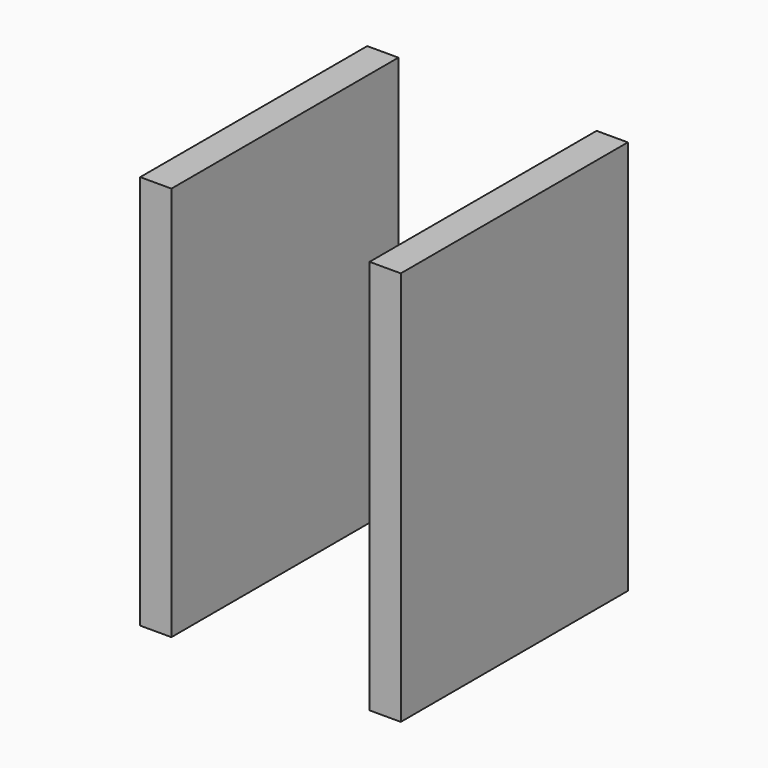
from build123d import *

# Parameters (mm, degrees)
F0_W          = 12.5699304044
F0_H          = 159.0629518032
F1_DEPTH      = 57.15
F1_DEPTH_BACK = 57.15
F2_W          = 12.5699304044
F2_H          = 159.0629518032
F3_DEPTH      = 57.15
F3_DEPTH_BACK = 57.15


with BuildPart() as f1:
    # F0 (on Front) → F1 (new body, two sides)
    with BuildSketch(Plane.XZ) as f1_sk:
        with Locations((-41.6003856808, 0)):
            Rectangle(F0_W, F0_H)
    extrude(amount=F1_DEPTH)
    extrude(f1_sk.sketch, amount=-F1_DEPTH_BACK)


with BuildPart() as f3:
    # F2 (on Front) → F3 (new body, two sides)
    with BuildSketch(Plane.XZ) as f3_sk:
        Rectangle(F2_W, F2_H)
    extrude(amount=F3_DEPTH)
    extrude(f3_sk.sketch, amount=-F3_DEPTH_BACK)


with BuildPart() as f3_1:
    # F4: moved
    add(f3.part.moved(Location((50.8, 0, 0))))


solid = Compound([f1.part, f3_1.part])
